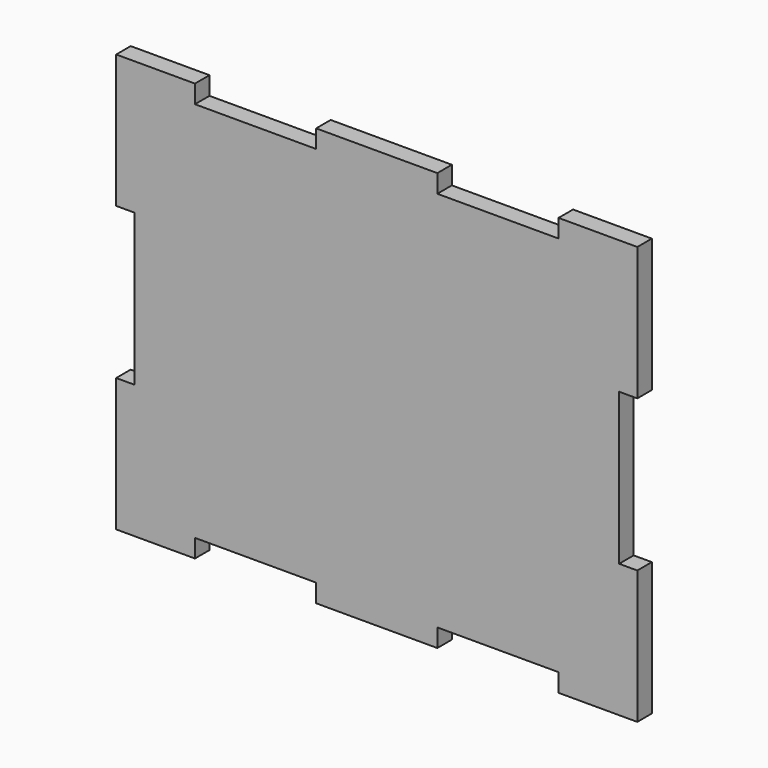
from build123d import *

# Parameters (mm, degrees)
F1_DEPTH = 3


with BuildPart() as f1:
    # F0 (on Front) → F1 (new body)
    with BuildSketch(Plane.XZ):
        Polygon((10, 34.5), (0, 34.5), (-10, 34.5), (-10, 31.5), (-30, 31.5), (-30, 34.5), (-43, 34.5), (-43, 12.5), (-40, 12.5), (-40, 0), (-40, -12.5), (-43, -12.5), (-43, -34.5), (-30, -34.5), (-30, -31.5), (-10, -31.5), (-10, -34.5), (0, -34.5), (10, -34.5), (10, -31.5), (30, -31.5), (30, -34.5), (43, -34.5), (43, -12.5), (40, -12.5), (40, 0), (40, 12.5), (43, 12.5), (43, 34.5), (30, 34.5), (30, 31.5), (10, 31.5), align=None)
    extrude(amount=F1_DEPTH)


solid = f1.part
